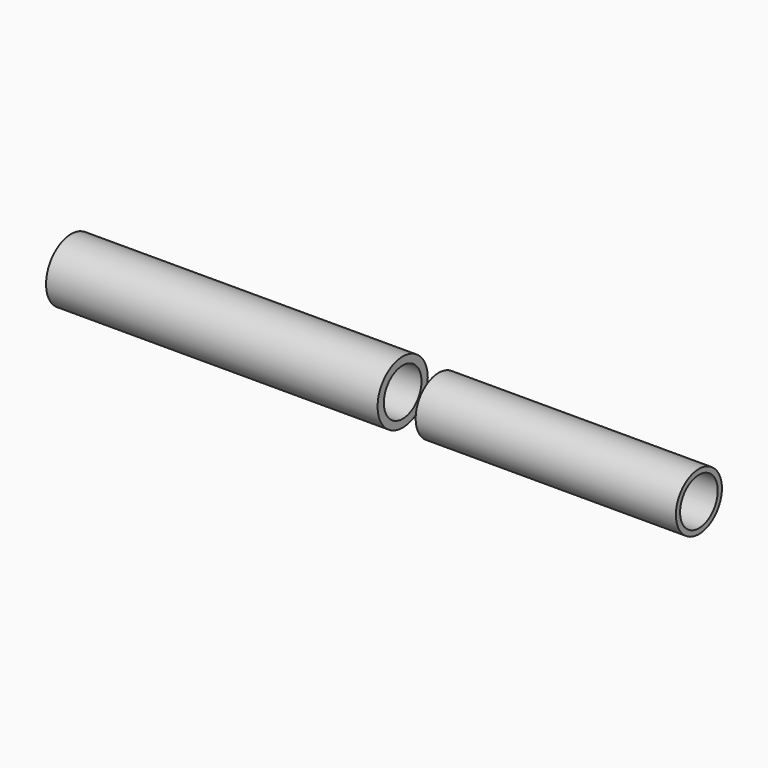
from build123d import *

# Parameters (mm, degrees)
F0_W   = 12.679413
F0_H   = 0.3
F0_W_2 = 9.952943
F0_H_2 = 0.2


with BuildPart() as f1:
    # F0 (on Top) → F1 (revolve)
    with BuildSketch(Plane.XY):
        with Locations((-5.426471, 1.05)):
            Rectangle(F0_W, F0_H)
        with Locations((7.266177, 1)):
            Rectangle(F0_W_2, F0_H_2)
    revolve(axis=Axis((-0.119118, 0, 0), (1, 0, 0)))


solid = f1.part
